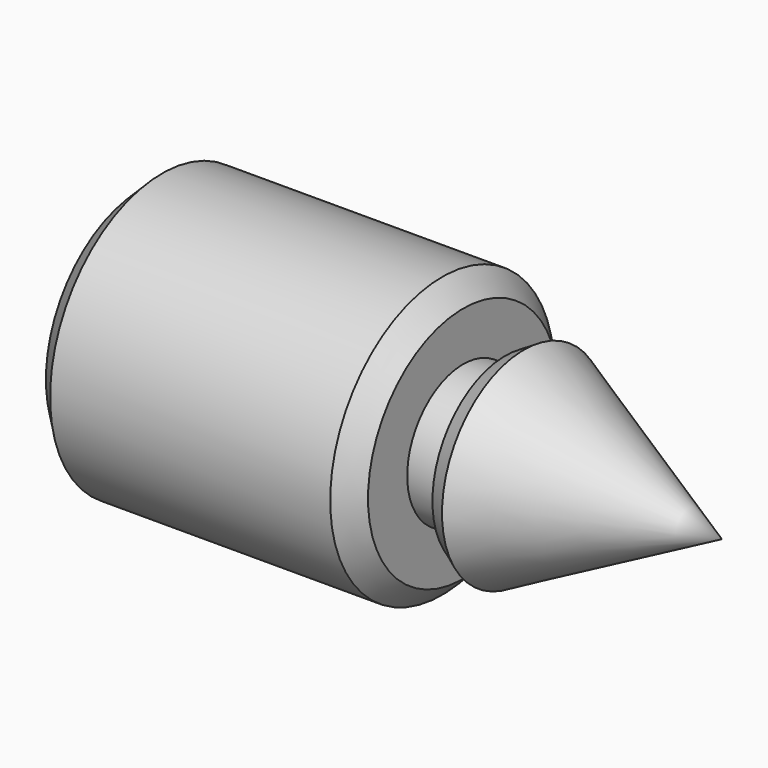
from build123d import *

# Parameters (mm, degrees)
F2_SIZE = 1.5
F3_SIZE = 1.5


with BuildPart() as f1:
    # F0 (on Top) → F1 (revolve)
    with BuildSketch(Plane.XY):
        Polygon((3, 5), (0, 5), (0, 10), (-23, 10), (-23, 2.5), (-22, 2.5), (-13, 2.5), (-13, 0), (0, 0), (18.471096, 0), (3, 8), align=None)
    revolve(axis=Axis((9.235548, 0, 0), (-1, 0, 0)))

    # F2
    f2_edges = [f1.edges().sort_by_distance(p)[0] for p in [
        (0, -10, 0),
        (-23, -10, 0),
        (-11.5, 10, 0),
    ]]
    chamfer(f2_edges, length=F2_SIZE)

    # F3
    f3_edges = [f1.edges().sort_by_distance(p)[0] for p in [
        (3, -8, 0),
    ]]
    chamfer(f3_edges, length=F3_SIZE)


solid = f1.part
